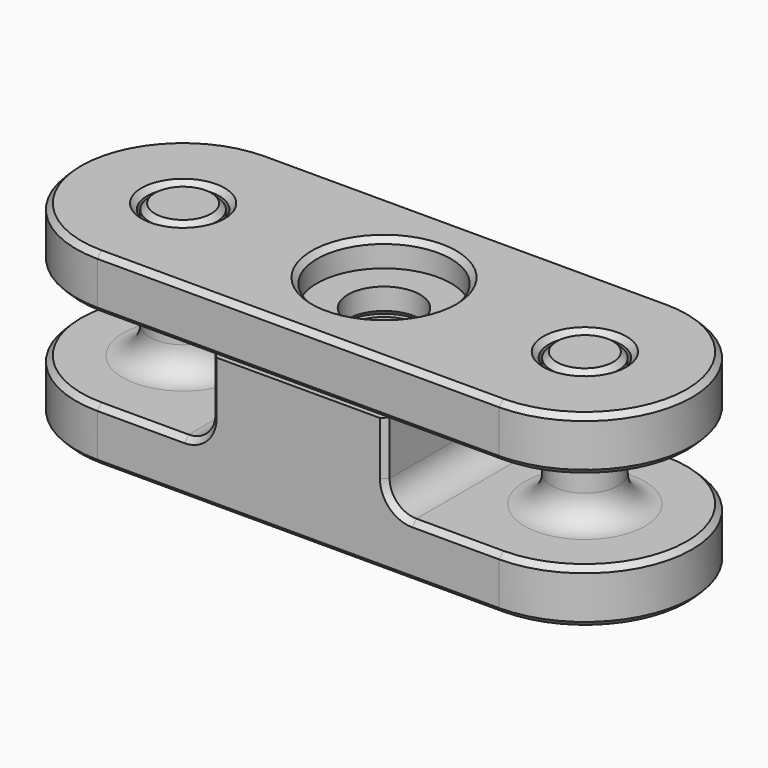
from build123d import *

# Parameters (mm, degrees)
PAD_DEPTH       = 4
SKETCH001_W     = 13
SKETCH001_H     = 16
PAD001_DEPTH    = 6
SKETCH002_R     = 2.5
PAD002_DEPTH    = 10
SKETCH003_R     = 2.7
POCKET_DEPTH    = 14.001
POCKET001_DEPTH = 5
FILLET_R        = 2
CHAMFER_SIZE    = 0.4
SKETCH005_R     = 2.7
PAD003_DEPTH    = 4
SKETCH006_R     = 5
POCKET002_DEPTH = 2
CHAMFER001_SIZE = 0.4


with BuildPart() as bottom:
    # Sketch → Pad (new body)
    with BuildSketch(Plane.XY):
        with BuildLine():
            Line((-14.999974, 8), (14.999974, 8))
            ThreePointArc((14.999974, -8), (23, 0), (14.999974, 8))
            Line((14.999974, -8), (-14.999974, -8))
            ThreePointArc((-14.999974, 8), (-23, 0), (-14.999974, -8))
        make_face()
    extrude(amount=PAD_DEPTH)

    # Sketch001 → Pad001 (join)
    with BuildSketch(Plane.XY.offset(4)):
        Rectangle(SKETCH001_W, SKETCH001_H)
    extrude(amount=PAD001_DEPTH)

    # Sketch002 → Pad002 (join)
    with BuildSketch(Plane.XY.offset(4)):
        with Locations((-15, 0)):
            Circle(SKETCH002_R)
        with Locations((15, 0)):
            Circle(SKETCH002_R)
    extrude(amount=PAD002_DEPTH)

    # Sketch003 → Pocket (cut, through all)
    with BuildSketch(Plane(origin=(0, 0, 0), x_dir=(1, 0, 0), z_dir=(0, 0, -1))):
        Circle(SKETCH003_R)
    extrude(amount=-POCKET_DEPTH, mode=Mode.SUBTRACT)

    # Sketch004 → Pocket001 (cut)
    with BuildSketch(Plane(origin=(0, 0, 0), x_dir=(1, 0, 0), z_dir=(0, 0, -1))):
        Polygon((0, 4.792007), (-4.15, 2.396004), (-4.15, -2.396004), (0, -4.792007), (4.15, -2.396004), (4.15, 2.396004), align=None)
    extrude(amount=-POCKET001_DEPTH, mode=Mode.SUBTRACT)

    # Fillet
    fillet_edges = [bottom.edges().sort_by_distance(p)[0] for p in [
        (12.5, 0, 4),
        (6.5, 0, 4),
        (-6.5, 0, 4),
        (-17.5, 0, 4),
    ]]
    fillet(fillet_edges, radius=FILLET_R)

    # Chamfer
    chamfer_edges = [bottom.edges().sort_by_distance(p)[0] for p in [
        (-6.5, -8, 8),
        (-7.085786, -8, 4.585786),
        (-11.749987, -8, 4),
        (-23, 0, 4),
        (-11.749987, 8, 4),
        (-7.085786, 8, 4.585786),
        (-6.5, 8, 8),
        (7.085786, 8, 4.585786),
        (6.5, 8, 8),
        (11.749987, 8, 4),
        (23, 0, 4),
        (11.749987, -8, 4),
        (7.085786, -8, 4.585786),
        (6.5, -8, 8),
        (0, 8, 0),
        (-23, 0, 0),
        (0, -8, 0),
        (23, 0, 0),
        (12.5, 0, 14),
        (-17.5, 0, 14),
        (2.075, 3.594005, 0),
        (-2.075, -3.594005, 0),
        (-4.15, 0, 0),
        (-2.075, 3.594005, 0),
        (4.15, 0, 0),
        (2.075, -3.594005, 0),
    ]]
    chamfer(chamfer_edges, length=CHAMFER_SIZE)


with BuildPart() as top:
    # Sketch005 → Pad003 (new body)
    with BuildSketch(Plane.XY):
        with BuildLine():
            ThreePointArc((-15, 8), (-23, 0), (-15, -8))
            Line((-15, -8), (15, -8))
            ThreePointArc((15, -8), (23, 0), (15, 8))
            Line((-15, 8), (15, 8))
        make_face()
        with Locations((-15, 0)):
            Circle(SKETCH005_R, mode=Mode.SUBTRACT)
        with Locations((15, 0)):
            Circle(SKETCH005_R, mode=Mode.SUBTRACT)
        Circle(SKETCH005_R, mode=Mode.SUBTRACT)
    extrude(amount=PAD003_DEPTH)

    # Sketch006 → Pocket002 (cut)
    with BuildSketch(Plane.XY.offset(4)):
        Circle(SKETCH006_R)
    extrude(amount=-POCKET002_DEPTH, mode=Mode.SUBTRACT)

    # Chamfer001
    chamfer001_edges = [top.edges().sort_by_distance(p)[0] for p in [
        (-23, 0, 4),
        (0, 8, 4),
        (0, -8, 4),
        (23, 0, 4),
        (12.3, 0, 4),
        (-5, 0, 4),
        (-17.7, 0, 4),
        (-23, 0, 0),
        (0, -8, 0),
        (23, 0, 0),
        (0, 8, 0),
        (12.3, 0, 0),
        (-2.7, 0, 0),
        (-17.7, 0, 0),
    ]]
    chamfer(chamfer001_edges, length=CHAMFER001_SIZE)


with BuildPart() as top_1:
    # Body002 placement: moved
    add(top.part.moved(Location((0, 0, 10))))


solid = Compound([bottom.part, top_1.part])
